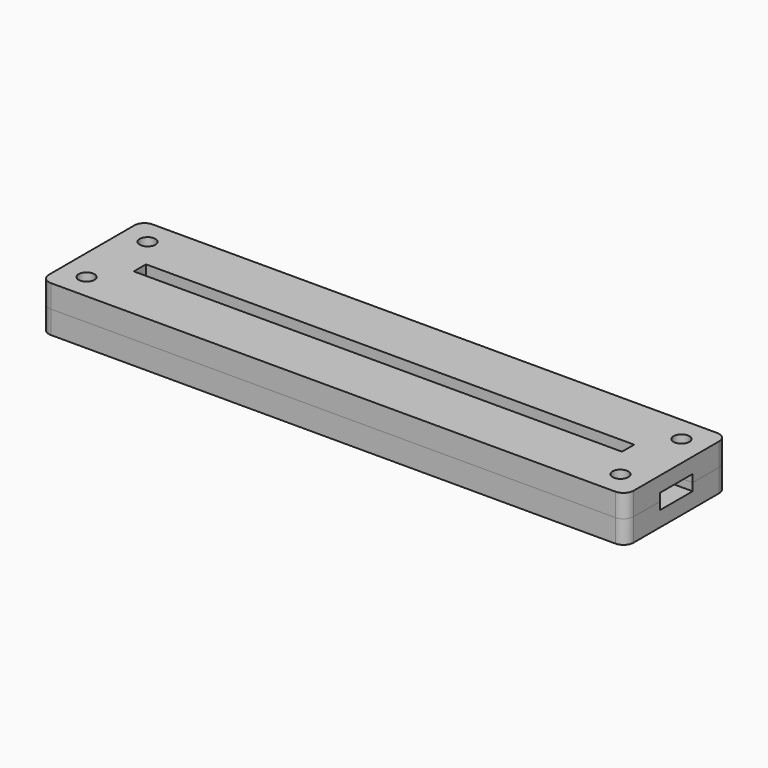
from build123d import *

# Parameters (mm, degrees)
BOX_BOTTOM_HALF_0_W     = 117
BOX_BOTTOM_HALF_0_H     = 27
BOX_BOTTOM_HALF_0_DEPTH = 5.5
SKETCH_W                = 115
SKETCH_H                = 25
PAD_DEPTH               = 3
PAD001_DEPTH            = 3
SKETCH002_W             = 115
SKETCH002_H             = 25
SKETCH002_W_2           = 96
SKETCH002_H_2           = 3
PAD002_DEPTH            = 3
SKETCH003_R             = 1.55
POCKET_DEPTH            = 245.060315
POLARPATTERN_COUNT      = 2
POLARPATTERN001_COUNT   = 2
POLARPATTERN002_COUNT   = 2
FILLET_R                = 2


with BuildPart() as box_bottom_half_0_body:
    # box_bottom_half_0 → box_bottom_half_0 (new body)
    with BuildSketch(Plane(origin=(-58.5, -13.5, -1), x_dir=(1, 0, 0), z_dir=(0, 0, 1))):
        with Locations((58.5, 13.5)):
            Rectangle(BOX_BOTTOM_HALF_0_W, BOX_BOTTOM_HALF_0_H)
    extrude(amount=BOX_BOTTOM_HALF_0_DEPTH)


with BuildPart() as body:
    # Sketch → Pad (new body)
    with BuildSketch(Plane.XY):
        Rectangle(SKETCH_W, SKETCH_H)
    extrude(amount=PAD_DEPTH)

    # Sketch001 (on Face6 of Pad) → Pad001 (join)
    with BuildSketch(Plane.XY.offset(3)):
        Polygon((-57.5, 12.5), (57.5, 12.5), (57.5, 4), (50, 4), (50, 5), (-50, 5), (-50, 4), (-57.5, 4), align=None)
        Polygon((-57.5, -12.5), (57.5, -12.5), (57.5, -4), (50, -4), (50, -5), (-50, -5), (-50, -4), (-57.5, -4), align=None)
    extrude(amount=PAD001_DEPTH)

    # Sketch002 (on Face12 of Pad001) → Pad002 (join)
    with BuildSketch(Plane.XY.offset(6)):
        Rectangle(SKETCH002_W, SKETCH002_H)
        Rectangle(SKETCH002_W_2, SKETCH002_H_2, mode=Mode.SUBTRACT)
    extrude(amount=PAD002_DEPTH)

    # Sketch003 (on Face26 of Pad002) → Pocket (cut, through all)
    with BuildSketch(Plane.XY.offset(9)):
        with Locations((-52.5, 7.5)):
            Circle(SKETCH003_R)
    pocket = extrude(amount=-POCKET_DEPTH, mode=Mode.SUBTRACT)

    # PolarPattern: Pocket ×2 about axis
    polarpattern_axis = Axis((0, 0, 0), (0, 1, 0))
    for i in range(1, POLARPATTERN_COUNT):
        add(pocket.rotate(polarpattern_axis, i * 360 / POLARPATTERN_COUNT), mode=Mode.SUBTRACT)

    # PolarPattern001: Pocket ×2 about axis
    polarpattern001_axis = Axis((0, 0, 0), (1, 0, 0))
    for i in range(1, POLARPATTERN001_COUNT):
        add(pocket.rotate(polarpattern001_axis, i * 360 / POLARPATTERN001_COUNT), mode=Mode.SUBTRACT)

    # PolarPattern002: Pocket ×2 about axis
    polarpattern002_axis = Axis((0, 0, 9), (0, 0, 1))
    for i in range(1, POLARPATTERN002_COUNT):
        add(pocket.rotate(polarpattern002_axis, i * 360 / POLARPATTERN002_COUNT), mode=Mode.SUBTRACT)

    # Fillet
    fillet_edges = [body.edges().sort_by_distance(p)[0] for p in [
        (57.5, 12.5, 7.5),
        (57.5, 12.5, 4.5),
        (57.5, 12.5, 1.5),
        (57.5, -12.5, 7.5),
        (-57.5, 12.5, 7.5),
        (-57.5, -12.5, 7.5),
    ]]
    fillet(fillet_edges, radius=FILLET_R)


with BuildPart() as bottom_half_0_body:
    # bottom_half_0 base: copy of Body
    add(body.part)

    # bottom_half_0: intersect box_bottom_half_0 body
    add(box_bottom_half_0_body.part, mode=Mode.INTERSECT)


with BuildPart() as top_half_0_body:
    # top_half_0 base: copy of Body
    add(body.part)

    # top_half_0: cut box_bottom_half_0 body
    add(box_bottom_half_0_body.part, mode=Mode.SUBTRACT)


solid = Compound([bottom_half_0_body.part, top_half_0_body.part])
